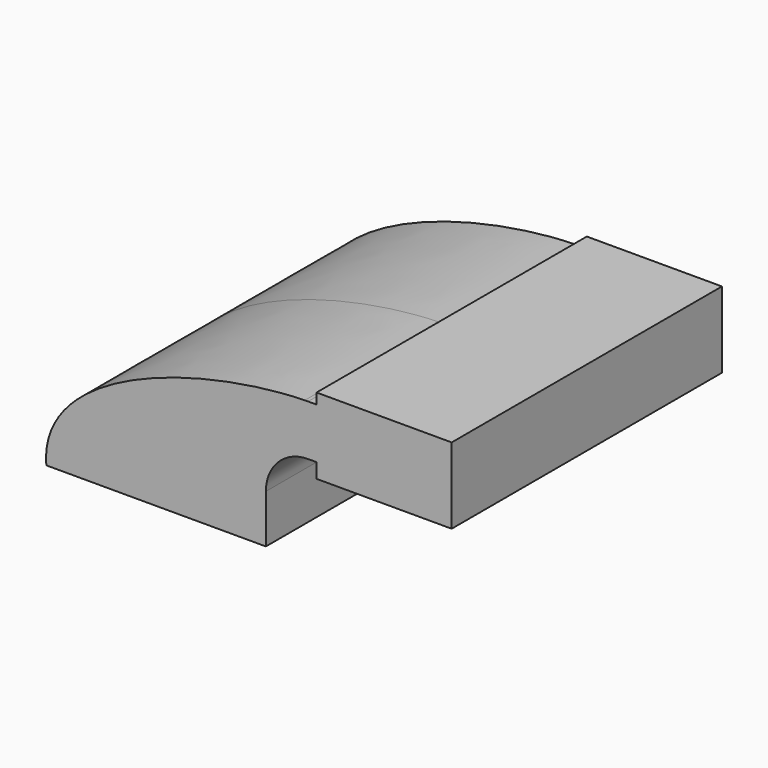
from build123d import *

# Parameters (mm, degrees)
F0_W     = 25.4
F0_H     = 5.5252907636
F0_H_2   = 3.9997092364
F0_H_3   = 19.05
F1_DEPTH = 63.5


with BuildPart() as f1:
    # F0 (on Front) → F1 (new body, symmetric)
    with BuildSketch(Plane.XZ):
        with BuildLine():
            ThreePointArc((57.15, 62.6752907636), (56.5270735546, 62.6697350267), (55.9043452947, 62.6530695835))
            add(Edge.make_bspline(
                [(55.9043452947, 62.6530695835), (56.3224009601, 62.6625285107), (56.7376574323, 62.6699360436), (57.15, 62.6752907636)],
                knots=[110.6508010744, 110.6508010744, 110.6508010744, 110.6508010744, 111.8589917407, 111.8589917407, 111.8589917407, 111.8589917407], degree=3))
        make_face()
        with BuildLine():
            add(Edge.make_bspline(
                [(-41.275, 9.525), (-44.1485205161, 43.7142056375), (17.617181224, 61.7867842379), (55.9043452947, 62.6530695835)],
                knots=[0, 0, 0, 0, 110.6508010744, 110.6508010744, 110.6508010744, 110.6508010744], degree=3))
            Line((-41.275, 9.525), (22.225, 9.525))
            Line((22.225, 9.525), (22.225, 27.7502907636))
            ThreePointArc((22.225, 27.7502907636), (32.0177486525, 52.0015910835), (55.9043452947, 62.6530695835))
        make_face()
        with Locations((73.025, 40.8626453818)):
            Rectangle(F0_W, F0_H)
        with Locations((73.025, 64.6751453818)):
            Rectangle(F0_W, F0_H_2)
        Polygon((85.725, 66.675), (85.725, 62.6752907636), (85.725, 43.6252907636), (85.725, 38.1), (111.125, 38.1), (111.125, 66.675), align=None)
        with BuildLine():
            Line((22.225, 27.7502907636), (22.225, 9.525))
            Line((22.225, 9.525), (41.275, 9.525))
            Line((41.275, 9.525), (41.275, 27.7502907636))
            ThreePointArc((41.275, 27.7502907636), (45.9246798487, 38.9756109149), (57.15, 43.6252907636))
            Line((57.15, 43.6252907636), (60.325, 43.6252907636))
            Line((60.325, 43.6252907636), (60.325, 62.6752907636))
            Line((60.325, 62.6752907636), (57.15, 62.6752907636))
            add(Edge.make_bspline(
                [(55.9043452947, 62.6530695835), (56.3224009601, 62.6625285107), (56.7376574323, 62.6699360436), (57.15, 62.6752907636)],
                knots=[110.6508010744, 110.6508010744, 110.6508010744, 110.6508010744, 111.8589917407, 111.8589917407, 111.8589917407, 111.8589917407], degree=3))
            ThreePointArc((55.9043452947, 62.6530695835), (32.0177486525, 52.0015910835), (22.225, 27.7502907636))
        make_face()
        with Locations((73.025, 53.1502907636)):
            Rectangle(F0_W, F0_H_3)
    extrude(amount=F1_DEPTH, both=True)


solid = f1.part
